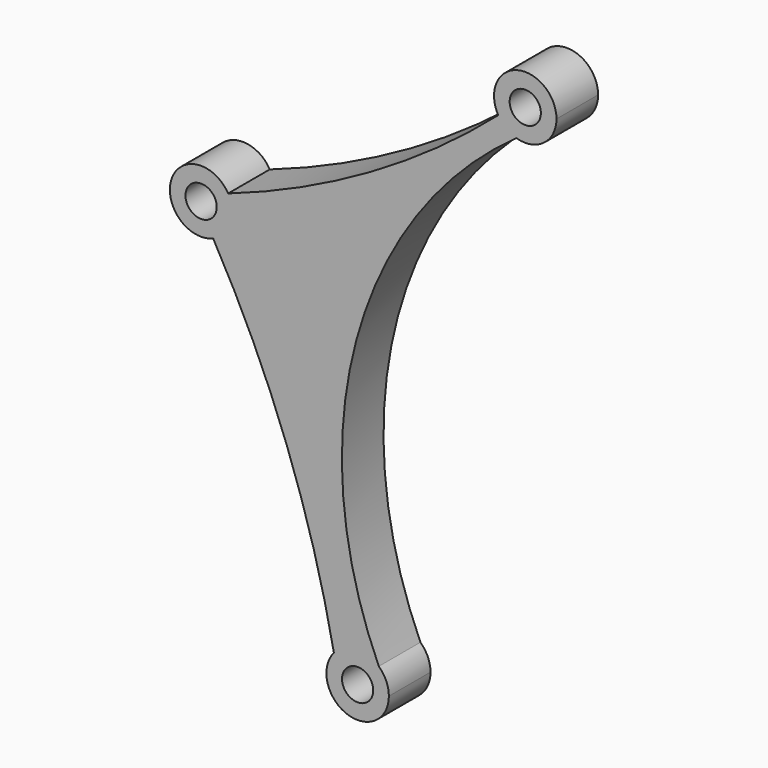
from build123d import *

# Parameters (mm, degrees)
F0_R     = 7.5
F1_DEPTH = 25


with BuildPart() as f1:
    # F0 (on Front) → F1 (new body)
    with BuildSketch(Plane.XZ):
        with BuildLine():
            ThreePointArc((151.406089, 75.963139), (164.65406, 78.313158), (170.688437, 90.338865))
            ThreePointArc((170.688437, 90.338865), (151.790396, 104.823521), (142.714401, 82.810626))
            ThreePointArc((142.714401, 82.810626), (146.40578, 78.556154), (151.406089, 75.963139))
        make_face()
        with Locations((155.688437, 90.338865)):
            Circle(F0_R, mode=Mode.SUBTRACT)
        with BuildLine():
            ThreePointArc((151.406089, 75.963139), (146.40578, 78.556154), (142.714401, 82.810626))
            ThreePointArc((142.714401, 82.810626), (81.467067, 38.925879), (12.974036, 7.528239))
            ThreePointArc((12.974036, 7.528239), (14.484656, 3.898041), (15, 0))
            ThreePointArc((15, 0), (12.48492, -8.314251), (5.783098, -13.840368))
            ThreePointArc((5.783098, -13.840368), (41.120873, -89.653423), (63.786896, -170.168199))
            ThreePointArc((63.786896, -170.168199), (74.29676, -164.950821), (85.347252, -168.896058))
            ThreePointArc((85.347252, -168.896058), (74.504143, -34.6304), (151.406089, 75.963139))
        make_face()
        with BuildLine():
            ThreePointArc((15, 0), (14.484656, 3.898041), (12.974036, 7.528239))
            ThreePointArc((12.974036, 7.528239), (-14.216605, 4.784155), (5.783098, -13.840368))
            ThreePointArc((5.783098, -13.840368), (12.48492, -8.314251), (15, 0))
        make_face()
        Circle(F0_R, mode=Mode.SUBTRACT)
        with BuildLine():
            ThreePointArc((90.180279, -179.924778), (88.918994, -173.904172), (85.347252, -168.896058))
            ThreePointArc((85.347252, -168.896058), (74.29676, -164.950821), (63.786896, -170.168199))
            ThreePointArc((63.786896, -170.168199), (69.979353, -193.994262), (90.180279, -179.924778))
        make_face()
        with Locations((75.180279, -179.924778)):
            Circle(F0_R, mode=Mode.SUBTRACT)
    extrude(amount=F1_DEPTH)


solid = f1.part
